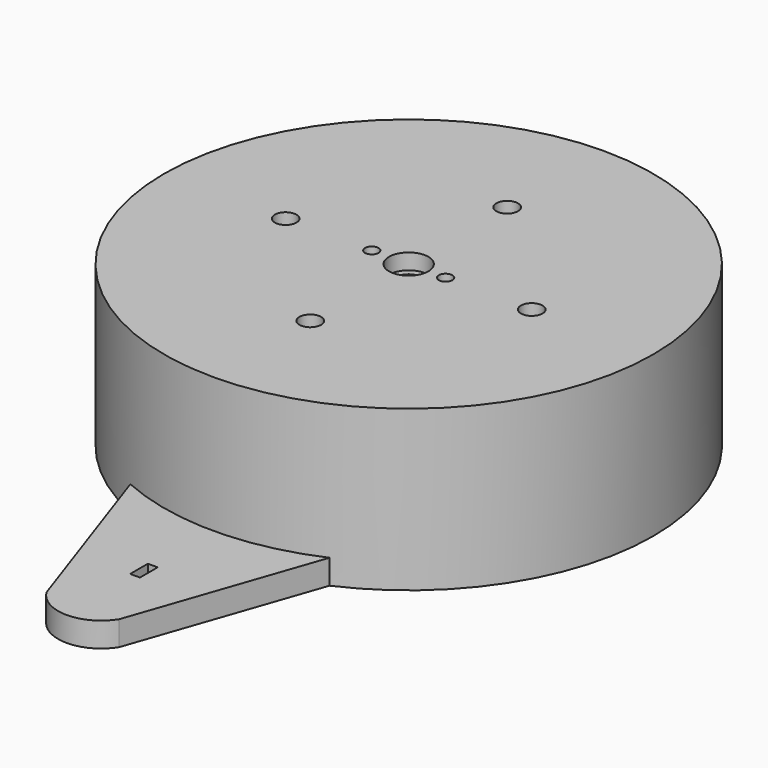
from build123d import *

# Parameters (mm, degrees)
CYLINDER009_R     = 2.65
CYLINDER009_DEPTH = 30
CYLINDER008_R     = 4
CYLINDER008_DEPTH = 3.2
CYLINDER010_R     = 1.375
CYLINDER010_DEPTH = 10
CYLINDER011_R     = 2.6
CYLINDER011_DEPTH = 2.1
ARRAY002_X_COUNT  = 2
ARRAY002_X_PITCH  = 15
CYLINDER007_R     = 37.7
CYLINDER007_DEPTH = 63
CYLINDER013_R     = 42.7
CYLINDER013_DEPTH = 45
CYLINDER012_R     = 49.7
CYLINDER012_DEPTH = 32.5
SKETCH_R          = 2.2
POCKET_DEPTH      = 5
SKETCH001_R       = 4.4
SKETCH001_R_2     = 4
POCKET001_DEPTH   = 2
POCKET006_DEPTH   = 25
PAD002_DEPTH      = 5
SKETCH018_W       = 2
SKETCH018_H       = 4.5
POCKET016_DEPTH   = 5


with BuildPart() as cylinder009:
    # Cylinder009 → Cylinder009 (new body)
    with BuildSketch(Plane.XY.offset(63)):
        Circle(CYLINDER009_R)
    extrude(amount=CYLINDER009_DEPTH)


with BuildPart() as cylinder008:
    # Cylinder008 → Cylinder008 (new body)
    with BuildSketch(Plane.XY.offset(64.8)):
        Circle(CYLINDER008_R)
    extrude(amount=CYLINDER008_DEPTH)


with BuildPart() as cylinder010:
    # Cylinder010 → Cylinder010 (new body)
    with BuildSketch(Plane.XY):
        Circle(CYLINDER010_R)
    extrude(amount=CYLINDER010_DEPTH)


with BuildPart() as fusion005:
    # Cylinder011 → Cylinder011 (new body)
    with BuildSketch(Plane.XY):
        Circle(CYLINDER011_R)
    extrude(amount=CYLINDER011_DEPTH)

    # Fusion004: union Cylinder010
    add(cylinder010.part)


with BuildPart() as fusion005_1:
    # Fusion004 placement: moved
    add(fusion005.part.moved(Location((0, 0, 63))))

    # Array002 X: Fusion005 ×2


with BuildPart() as fusion005_2:
    add(fusion005_1.part)
    with Locations(*[(i * ARRAY002_X_PITCH, 0, 0) for i in range(1, ARRAY002_X_COUNT)]):
        add(fusion005_1.part)


with BuildPart() as fusion005_3:
    # Array002 placement: moved
    add(fusion005_2.part.moved(Location((-7.5, 0, 0))))

    # Fusion005: union Cylinder009, Cylinder008
    add(cylinder009.part)
    add(cylinder008.part)


with BuildPart() as cylinder007:
    # Cylinder007 → Cylinder007 (new body)
    with BuildSketch(Plane.XY):
        Circle(CYLINDER007_R)
    extrude(amount=CYLINDER007_DEPTH)


with BuildPart() as fusion006:
    # Cylinder013 → Cylinder013 (new body)
    with BuildSketch(Plane.XY):
        Circle(CYLINDER013_R)
    extrude(amount=CYLINDER013_DEPTH)

    # Fusion006: union Cylinder007
    add(cylinder007.part)


with BuildPart() as obj1:
    # Cylinder012 → Cylinder012 (new body)
    with BuildSketch(Plane.XY.offset(35.5)):
        Circle(CYLINDER012_R)
    extrude(amount=CYLINDER012_DEPTH)

    # Cut008: cut Fusion006
    add(fusion006.part, mode=Mode.SUBTRACT)

    # Cut009: cut Fusion005
    add(fusion005_3.part, mode=Mode.SUBTRACT)

    # Sketch (on Face3 of Cut009) → Pocket (cut)
    with BuildSketch(Plane.XY.offset(68)):
        with Locations((0, 25)):
            Circle(SKETCH_R)
        with Locations((25, 0)):
            Circle(SKETCH_R)
        with Locations((0, -25)):
            Circle(SKETCH_R)
        with Locations((-25, 0)):
            Circle(SKETCH_R)
    extrude(amount=-POCKET_DEPTH, mode=Mode.SUBTRACT)

    # Sketch001 (on Face13 of Pocket) → Pocket001 (cut)
    with BuildSketch(Plane(origin=(0, 0, 63), x_dir=(1, 0, 0), z_dir=(0, 0, -1))):
        with Locations((-25, 0)):
            Circle(SKETCH001_R)
        with Locations((0, 25)):
            Circle(SKETCH001_R_2)
        with Locations((25, 0)):
            Circle(SKETCH001_R_2)
        with Locations((0, -25)):
            Circle(SKETCH001_R_2)
    extrude(amount=-POCKET001_DEPTH, mode=Mode.SUBTRACT)

    # Sketch002 → Pocket006 (cut)
    with BuildSketch(Plane(origin=(0, 60, -1), x_dir=(1, 0, 0), z_dir=(0, -1, 0))):
        with BuildLine():
            ThreePointArc((3.4, 59.599979), (1.2e-05, 63), (-3.4, 59.600003))
            Line((-3.4, 59.600003), (-3.4, 0))
            Line((-3.4, 0), (3.4, 0))
            Line((3.4, 59.599979), (3.4, 0))
        make_face()
    extrude(amount=POCKET006_DEPTH, mode=Mode.SUBTRACT)

    # Sketch017 (on Face2 of Pocket006) → Pad002 (join)
    with BuildSketch(Plane(origin=(0, 0, 35.5), x_dir=(1, 0, 0), z_dir=(0, 0, -1))):
        with BuildLine():
            ThreePointArc((20.231067, 45.395694), (-0.005277, 49.699749), (-20.240706, 45.391396))
            Line((-7.40759, 82.752427), (-20.240706, 45.391396))
            ThreePointArc((7.358623, 82.756756), (-0.025675, 86.818946), (-7.40759, 82.752427))
            Line((7.358623, 82.756756), (20.231067, 45.395694))
        make_face()
    extrude(amount=-PAD002_DEPTH)

    # Sketch018 (on Face22 of Pad002) → Pocket016 (cut)
    with BuildSketch(Plane(origin=(0, 0, 35.5), x_dir=(1, 0, 0), z_dir=(0, 0, -1))):
        with Locations((0, 67.25)):
            Rectangle(SKETCH018_W, SKETCH018_H)
    extrude(amount=-POCKET016_DEPTH, mode=Mode.SUBTRACT)


solid = obj1.part
